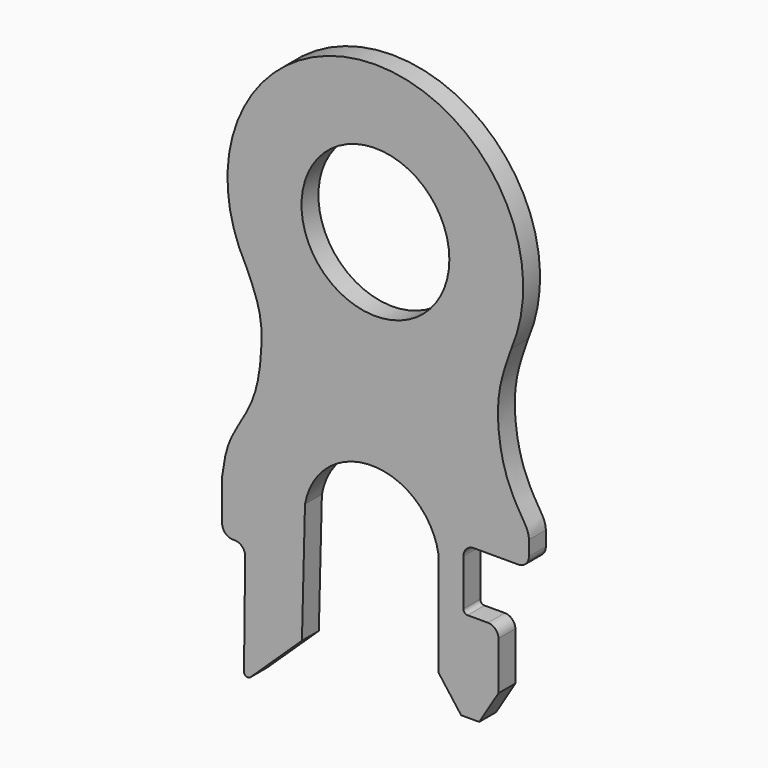
from build123d import *

# Parameters (mm, degrees)
F0_R     = 3.5
F1_DEPTH = 1


with BuildPart() as f1:
    # F0 (on Front) → F1 (new body)
    with BuildSketch(Plane.XZ):
        with BuildLine():
            Line((-6.6117709503, -17.7072025836), (-4.180541262, -15.3958080336))
            Line((-4.180541262, -15.3958080336), (-4.0357941762, -9.6612172201))
            ThreePointArc((-4.0357941762, -9.6612172201), (-0.8592229863, -7.0206183808), (2.2847101224, -9.6999935621))
            Line((2.2847101224, -9.6999935621), (2.2847101224, -14.6249644458))
            Line((2.2847101224, -14.6249644458), (3.3562604804, -16.0533804446))
            Line((3.3562604804, -16.0533804446), (4.2133103125, -16.0533804446))
            Line((4.2133103125, -16.0533804446), (5.123925861, -14.5599710971))
            Line((5.123925861, -14.5599710971), (5.123925861, -12.2859868333))
            ThreePointArc((5.123925861, -12.2859868333), (4.9774792516, -11.9324334427), (4.623925861, -11.7859868333))
            Line((4.623925861, -11.7859868333), (3.6633914474, -11.7859868333))
            ThreePointArc((3.6633914474, -11.7859868333), (3.5219700912, -11.7274081895), (3.4633914474, -11.5859868333))
            Line((3.4633914474, -11.5859868333), (3.4633914474, -9.3933893368))
            ThreePointArc((3.4633914474, -9.3933893368), (3.6098380568, -9.0398359462), (3.9633914474, -8.8933893368))
            Line((3.9633914474, -8.8933893368), (6.0659102777, -8.8933893368))
            ThreePointArc((6.0659102777, -8.8933893368), (6.4194636683, -8.7469427274), (6.5659102777, -8.3933893368))
            Line((6.5659102777, -8.3933893368), (6.5659102777, -7.6971449889))
            add(Edge.make_bspline(
                [(6.5659102777, -7.6971449889), (6.5659102777, -7.3604537174), (6.1308538816, -6.7250376157), (5.3694360763, -5.3256448251), (5.0200880103, -3.2005265741), (5.1779062539, -1.5597114412), (5.5472315899, -0.5191652161), (5.7321804401, 0)],
                knots=[0, 0, 0, 0, 0.1603623278, 0.3613989356, 0.5935239119, 0.7972784215, 1, 1, 1, 1], degree=3))
            ThreePointArc((5.7321804401, 0), (-1.0752950501, 9.7383416681), (-6.8182754475, -0.663350365))
            add(Edge.make_bspline(
                [(-7.9565616325, -9.7683481872), (-7.8795153177, -9.2354358822), (-7.7383664617, -8.0850617885), (-6.3860842213, -6.2946925646), (-6.072886576, -4.0949884517), (-6.0697572799, -2.3374053261), (-6.5696365594, -1.2250004752), (-6.8182754475, -0.663350365)],
                knots=[0, 0, 0, 0, 0.1859272011, 0.4003477057, 0.6149796646, 0.8054836062, 1, 1, 1, 1], degree=3))
            Line((-7.9565616325, -9.7683481872), (-7.9565616325, -11.7456736863))
            ThreePointArc((-7.9565616325, -11.7456736863), (-7.810115023, -12.0992270769), (-7.4565616325, -12.2456736863))
            Line((-7.4565616325, -12.2456736863), (-7.3690715705, -12.2456736863))
            ThreePointArc((-7.3690715705, -12.2456736863), (-7.0135065314, -12.3941434558), (-6.8691041299, -12.7513796745))
            Line((-6.8691041299, -12.7513796745), (-6.9242371246, -17.5822172314))
            ThreePointArc((-6.9242371246, -17.5822172314), (-6.8108358449, -17.7517903835), (-6.6117709503, -17.7072025836))
        make_face()
        with Locations((-0.7007342175, 2.7600016318)):
            Circle(F0_R, mode=Mode.SUBTRACT)
        with BuildLine():
            Line((-6.6117709503, -17.7072025836), (-4.180541262, -15.3958080336))
            Line((-4.180541262, -15.3958080336), (-4.0357941762, -9.6612172201))
            ThreePointArc((-4.0357941762, -9.6612172201), (-0.8592229863, -7.0206183808), (2.2847101224, -9.6999935621))
            Line((2.2847101224, -9.6999935621), (2.2847101224, -14.6249644458))
            Line((2.2847101224, -14.6249644458), (3.3562604804, -16.0533804446))
            Line((3.3562604804, -16.0533804446), (4.2133103125, -16.0533804446))
            Line((4.2133103125, -16.0533804446), (5.123925861, -14.5599710971))
            Line((5.123925861, -14.5599710971), (5.123925861, -12.2859868333))
            ThreePointArc((5.123925861, -12.2859868333), (4.9774792516, -11.9324334427), (4.623925861, -11.7859868333))
            Line((4.623925861, -11.7859868333), (3.6633914474, -11.7859868333))
            ThreePointArc((3.6633914474, -11.7859868333), (3.5219700912, -11.7274081895), (3.4633914474, -11.5859868333))
            Line((3.4633914474, -11.5859868333), (3.4633914474, -9.3933893368))
            ThreePointArc((3.4633914474, -9.3933893368), (3.6098380568, -9.0398359462), (3.9633914474, -8.8933893368))
            Line((3.9633914474, -8.8933893368), (6.0659102777, -8.8933893368))
            ThreePointArc((6.0659102777, -8.8933893368), (6.4194636683, -8.7469427274), (6.5659102777, -8.3933893368))
            Line((6.5659102777, -8.3933893368), (6.5659102777, -7.6971449889))
            add(Edge.make_bspline(
                [(6.5659102777, -7.6971449889), (6.5659102777, -7.3604537174), (6.1308538816, -6.7250376157), (5.3694360763, -5.3256448251), (5.0200880103, -3.2005265741), (5.1779062539, -1.5597114412), (5.5472315899, -0.5191652161), (5.7321804401, 0)],
                knots=[0, 0, 0, 0, 0.1603623278, 0.3613989356, 0.5935239119, 0.7972784215, 1, 1, 1, 1], degree=3))
            ThreePointArc((5.7321804401, 0), (-1.0752950501, 9.7383416681), (-6.8182754475, -0.663350365))
            add(Edge.make_bspline(
                [(-7.9565616325, -9.7683481872), (-7.8795153177, -9.2354358822), (-7.7383664617, -8.0850617885), (-6.3860842213, -6.2946925646), (-6.072886576, -4.0949884517), (-6.0697572799, -2.3374053261), (-6.5696365594, -1.2250004752), (-6.8182754475, -0.663350365)],
                knots=[0, 0, 0, 0, 0.1859272011, 0.4003477057, 0.6149796646, 0.8054836062, 1, 1, 1, 1], degree=3))
            Line((-7.9565616325, -9.7683481872), (-7.9565616325, -11.7456736863))
            ThreePointArc((-7.9565616325, -11.7456736863), (-7.810115023, -12.0992270769), (-7.4565616325, -12.2456736863))
            Line((-7.4565616325, -12.2456736863), (-7.3690715705, -12.2456736863))
            ThreePointArc((-7.3690715705, -12.2456736863), (-7.0135065314, -12.3941434558), (-6.8691041299, -12.7513796745))
            Line((-6.8691041299, -12.7513796745), (-6.9242371246, -17.5822172314))
            ThreePointArc((-6.9242371246, -17.5822172314), (-6.8108358449, -17.7517903835), (-6.6117709503, -17.7072025836))
        make_face()
        with Locations((-0.7007342175, 2.7600016318)):
            Circle(F0_R, mode=Mode.SUBTRACT)
    extrude(amount=F1_DEPTH)


solid = f1.part
